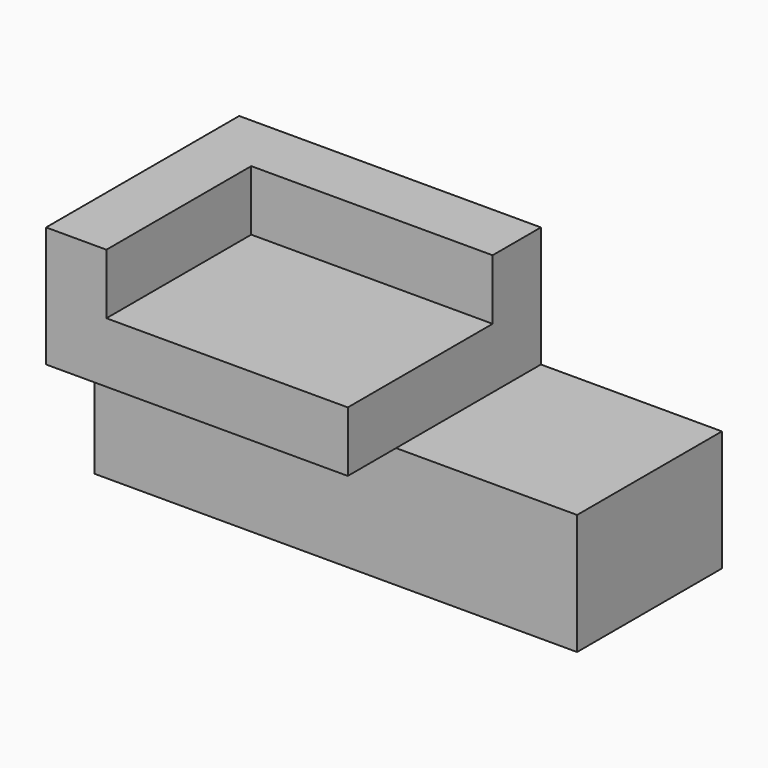
from build123d import *

# Parameters (mm, degrees)
F0_W     = 203.2
F0_H     = 101.6
F1_DEPTH = 101.6
F2_W     = 203.2
F2_H     = 50.8
F3_DEPTH = 25.4
F4_W     = 76.2
F4_H     = 101.6
F5_DEPTH = 50.8
F6_W     = 101.6
F6_H     = 76.2
F7_DEPTH = 25.4


with BuildPart() as f1:
    # F0 (on Top) → F1 (new body)
    with BuildSketch(Plane.XY):
        with Locations((0.245053, -6.22152)):
            Rectangle(F0_W, F0_H)
    extrude(amount=F1_DEPTH)

    # F2 (on face) → F3 (cut)
    with BuildSketch(Plane.XZ.offset(57.02152)):
        with Locations((0.245053, 25.4)):
            Rectangle(F2_W, F2_H)
    extrude(amount=-F3_DEPTH, mode=Mode.SUBTRACT)

    # F4 (on face) → F5 (cut)
    with BuildSketch(Plane.XY.offset(101.6)):
        with Locations((63.745053, -6.22152)):
            Rectangle(F4_W, F4_H)
    extrude(amount=-F5_DEPTH, mode=Mode.SUBTRACT)

    # F6 (on face) → F7 (cut)
    with BuildSketch(Plane.XY.offset(101.6)):
        with Locations((-25.154947, -18.92152)):
            Rectangle(F6_W, F6_H)
    extrude(amount=-F7_DEPTH, mode=Mode.SUBTRACT)


solid = f1.part
